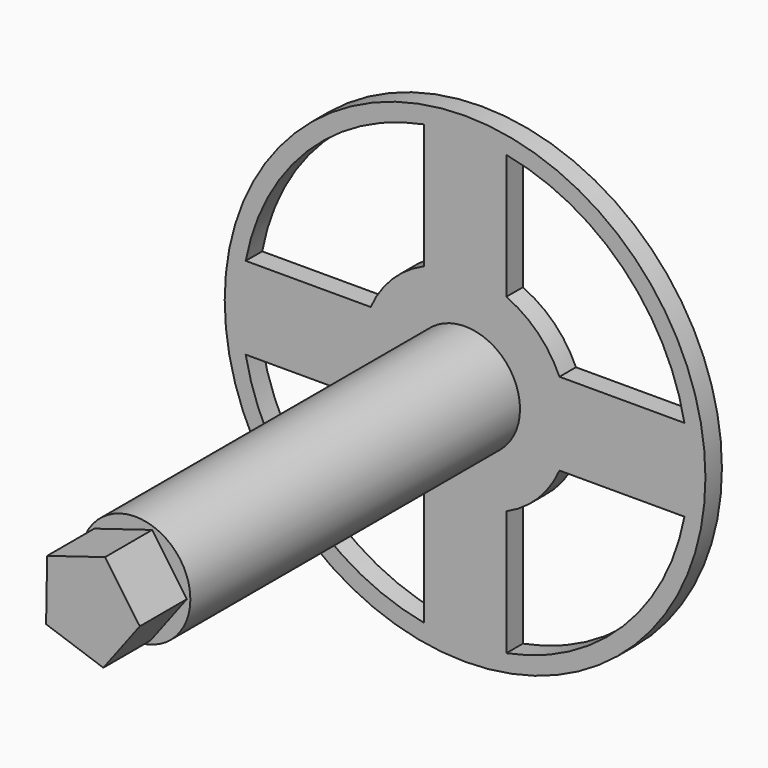
from build123d import *

# Parameters (mm, degrees)
F0_R     = 44.45
F1_DEPTH = 3.81
F2_R     = 10.16
F3_DEPTH = 76.2
F5_DEPTH = 10.8966


with BuildPart() as f1:
    # F0 (on Front) → F1 (new body)
    with BuildSketch(Plane.XZ):
        Circle(F0_R)
        with BuildLine():
            ThreePointArc((7.631228, 40.563407), (29.185832, 29.185832), (40.563407, 7.631228))
            ThreePointArc((40.563407, 7.631228), (41.096717, 3.832167), (41.275, 0))
            ThreePointArc((41.275, 0), (41.096717, -3.832167), (40.563407, -7.631228))
            ThreePointArc((40.563407, -7.631228), (29.185832, -29.185832), (7.631228, -40.563407))
            ThreePointArc((7.631228, -40.563407), (0, -41.275), (-7.631228, -40.563407))
            ThreePointArc((-7.631228, -40.563407), (-29.185832, -29.185832), (-40.563407, -7.631228))
            ThreePointArc((-40.563407, -7.631228), (-41.275, 0), (-40.563407, 7.631228))
            ThreePointArc((-40.563407, 7.631228), (-29.185832, 29.185832), (-7.631228, 40.563407))
            ThreePointArc((-7.631228, 40.563407), (0, 41.275), (7.631228, 40.563407))
        make_face(mode=Mode.SUBTRACT)
        with BuildLine():
            ThreePointArc((-17.454709, -7.631228), (-19.05, 0), (-17.454709, 7.631228))
            Line((-17.454709, 7.631228), (-40.563407, 7.631228))
            Line((-40.563407, 7.631228), (-40.563407, -7.631228))
            Line((-40.563407, -7.631228), (-17.454709, -7.631228))
        make_face()
        with BuildLine():
            Line((17.454709, -7.631228), (17.454709, 7.631228))
            ThreePointArc((17.454709, 7.631228), (13.470384, 13.470384), (7.631228, 17.454709))
            Line((7.631228, 17.454709), (-7.631228, 17.454709))
            ThreePointArc((-7.631228, 17.454709), (-13.470384, 13.470384), (-17.454709, 7.631228))
            Line((-17.454709, 7.631228), (-17.454709, -7.631228))
            ThreePointArc((-17.454709, -7.631228), (-13.470384, -13.470384), (-7.631228, -17.454709))
            Line((-7.631228, -17.454709), (7.631228, -17.454709))
            ThreePointArc((7.631228, -17.454709), (13.470384, -13.470384), (17.454709, -7.631228))
        make_face()
        with BuildLine():
            Line((-17.454709, -7.631228), (-17.454709, 7.631228))
            ThreePointArc((-17.454709, 7.631228), (-19.05, 0), (-17.454709, -7.631228))
        make_face()
        with BuildLine():
            Line((-7.631228, 17.454709), (7.631228, 17.454709))
            ThreePointArc((7.631228, 17.454709), (0, 19.05), (-7.631228, 17.454709))
        make_face()
        with BuildLine():
            ThreePointArc((17.454709, -7.631228), (18.646913, -3.898096), (19.05, 0))
            ThreePointArc((19.05, 0), (18.646913, 3.898096), (17.454709, 7.631228))
            Line((17.454709, 7.631228), (17.454709, -7.631228))
        make_face()
        with BuildLine():
            ThreePointArc((41.275, 0), (41.096717, 3.832167), (40.563407, 7.631228))
            Line((40.563407, 7.631228), (40.563407, -7.631228))
            ThreePointArc((40.563407, -7.631228), (41.096717, -3.832167), (41.275, 0))
        make_face()
        with BuildLine():
            ThreePointArc((17.454709, 7.631228), (18.646913, 3.898096), (19.05, 0))
            ThreePointArc((19.05, 0), (18.646913, -3.898096), (17.454709, -7.631228))
            Line((17.454709, -7.631228), (40.563407, -7.631228))
            Line((40.563407, -7.631228), (40.563407, 7.631228))
            Line((40.563407, 7.631228), (17.454709, 7.631228))
        make_face()
        with BuildLine():
            Line((7.631228, -40.563407), (7.631228, -17.454709))
            ThreePointArc((7.631228, -17.454709), (0, -19.05), (-7.631228, -17.454709))
            Line((-7.631228, -17.454709), (-7.631228, -40.563407))
            Line((-7.631228, -40.563407), (7.631228, -40.563407))
        make_face()
        with BuildLine():
            ThreePointArc((-7.631228, -17.454709), (0, -19.05), (7.631228, -17.454709))
            Line((7.631228, -17.454709), (-7.631228, -17.454709))
        make_face()
        with BuildLine():
            ThreePointArc((-7.631228, -40.563407), (0, -41.275), (7.631228, -40.563407))
            Line((7.631228, -40.563407), (-7.631228, -40.563407))
        make_face()
        with BuildLine():
            Line((-40.563407, -7.631228), (-40.563407, 7.631228))
            ThreePointArc((-40.563407, 7.631228), (-41.275, 0), (-40.563407, -7.631228))
        make_face()
        with BuildLine():
            ThreePointArc((-7.631228, 17.454709), (0, 19.05), (7.631228, 17.454709))
            Line((7.631228, 17.454709), (7.631228, 40.563407))
            Line((7.631228, 40.563407), (-7.631228, 40.563407))
            Line((-7.631228, 40.563407), (-7.631228, 17.454709))
        make_face()
        with BuildLine():
            Line((-7.631228, 40.563407), (7.631228, 40.563407))
            ThreePointArc((7.631228, 40.563407), (0, 41.275), (-7.631228, 40.563407))
        make_face()
    extrude(amount=F1_DEPTH)

    # F2 (on face) → F3 (join)
    with BuildSketch(Plane.XZ.offset(3.81)):
        Circle(F2_R)
    extrude(amount=F3_DEPTH)

    # F4 (on face) → F5 (join)
    with BuildSketch(Plane.XZ.offset(80.01)):
        Polygon((3.102705, 9.00549), (-7.605941, 5.733697), (-7.803435, -5.46187), (2.783154, -9.109318), (9.523518, -0.167998), align=None)
    extrude(amount=F5_DEPTH)


solid = f1.part
